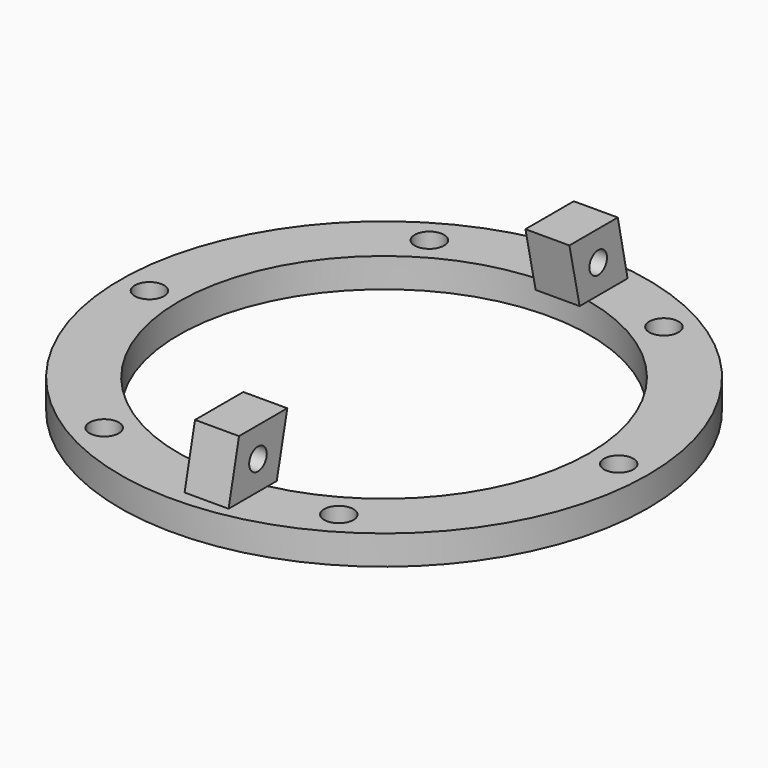
from build123d import *

# Parameters (mm, degrees)
SKETCH019_R     = 36
SKETCH019_R_2   = 28
SKETCH019_R_3   = 2
PAD003_DEPTH    = 4
SKETCH037_W     = 6
SKETCH037_H     = 12
PAD015_DEPTH    = 8
POCKET018_DEPTH = 8
SKETCH039_R     = 1.5
POCKET019_DEPTH = 9


with BuildPart() as part:
    # Sketch019 → Pad003 (new body)
    with BuildSketch(Plane.XY):
        Circle(SKETCH019_R)
        Circle(SKETCH019_R_2, mode=Mode.SUBTRACT)
        with Locations((-16, 27.712813)):
            Circle(SKETCH019_R_3, mode=Mode.SUBTRACT)
        with Locations((16, 27.712813)):
            Circle(SKETCH019_R_3, mode=Mode.SUBTRACT)
        with Locations((32, 0)):
            Circle(SKETCH019_R_3, mode=Mode.SUBTRACT)
        with Locations((16, -27.712813)):
            Circle(SKETCH019_R_3, mode=Mode.SUBTRACT)
        with Locations((-16, -27.712813)):
            Circle(SKETCH019_R_3, mode=Mode.SUBTRACT)
        with Locations((-32, 0)):
            Circle(SKETCH019_R_3, mode=Mode.SUBTRACT)
    extrude(amount=PAD003_DEPTH)

    # Sketch037 (on Face10 of Pad003) → Pad015 (join)
    with BuildSketch(Plane.XY.offset(4)):
        with Locations((3, 29.496479)):
            Rectangle(SKETCH037_W, SKETCH037_H)
        with Locations((3, -30)):
            Rectangle(SKETCH037_W, SKETCH037_H)
    extrude(amount=PAD015_DEPTH)

    # Sketch038 (on Face14 of Pad015) → Pocket018 (cut)
    with BuildSketch(Plane.YZ.offset(6)):
        Polygon((35.496479, 4), (34.014362, 4), (32.343197, 12), (35.496479, 12), align=None)
        Polygon((23.496479, 4), (25.836313, 4), (24.094032, 12), (23.496479, 12), align=None)
        Polygon((-24, 4), (-25.796526, 4), (-24, 12), align=None)
        Polygon((-36, 4), (-34.010136, 4), (-32.232297, 12), (-36, 12), align=None)
    extrude(amount=-POCKET018_DEPTH, mode=Mode.SUBTRACT)

    # Sketch039 (on Face10 of Pocket018) → Pocket019 (cut)
    with BuildSketch(Plane.YZ.offset(6)):
        with Locations((-29, 7.95)):
            Circle(SKETCH039_R)
        with Locations((29, 7.95)):
            Circle(SKETCH039_R)
    extrude(amount=-POCKET019_DEPTH, mode=Mode.SUBTRACT)


solid = part.part
